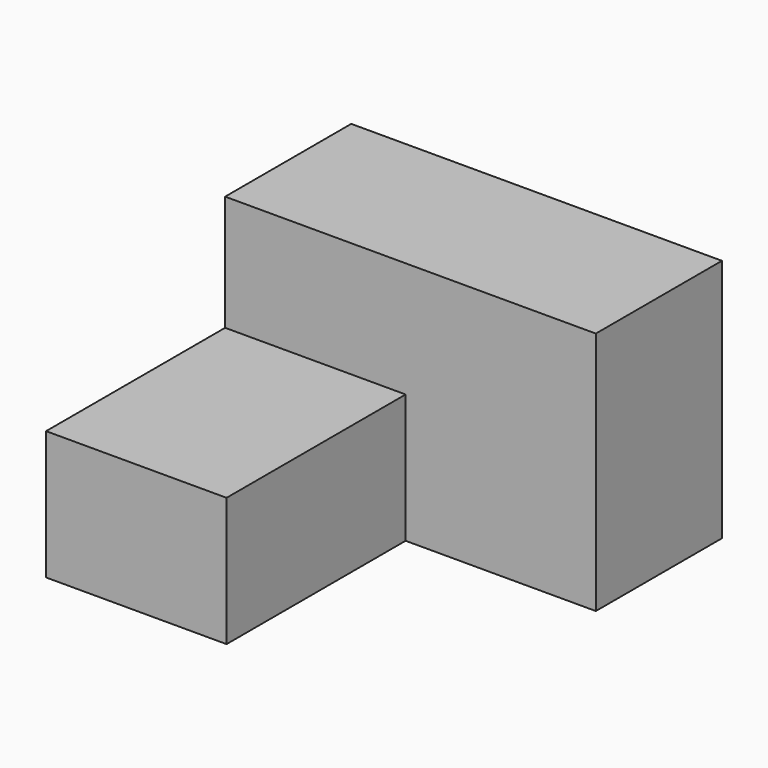
from build123d import *

# Parameters (mm, degrees)
F0_W     = 29.0856435895
F0_H     = 20.7614693791
F1_DEPTH = 48.768
F2_DEPTH = 12.7


with BuildPart() as f1:
    # F0 (on Front) → F1 (new body)
    with BuildSketch(Plane.XZ):
        with Locations((-14.5428217947, 10.3807346895)):
            Rectangle(F0_W, F0_H)
    extrude(amount=F1_DEPTH)

    # F0 (on Front) → F2 (join, symmetric)
    with BuildSketch(Plane.XZ):
        with Locations((-14.5428217947, 10.3807346895)):
            Rectangle(F0_W, F0_H)
        Polygon((0, 20.7614693791), (0, 0), (30.6525491178, 0), (30.6525491178, 39.3684469163), (-29.0856435895, 39.3684469163), (-29.0856435895, 20.7614693791), align=None)
    extrude(amount=F2_DEPTH, both=True)


solid = f1.part
